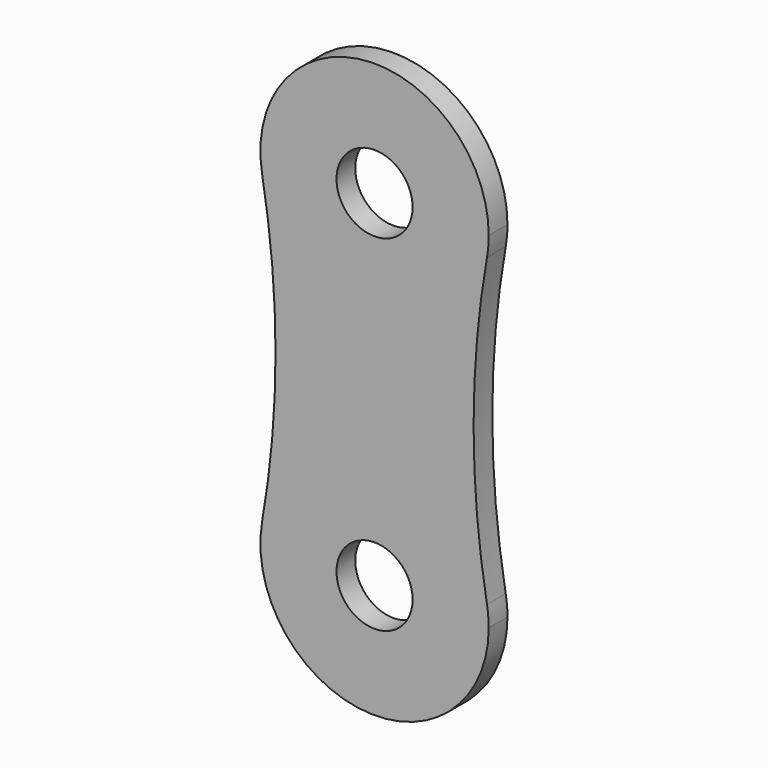
from build123d import *

# Parameters (mm, degrees)
F0_R     = 0.1651
F1_DEPTH = 0.1016


with BuildPart() as f1:
    # F0 (on Front) → F1 (new body)
    with BuildSketch(Plane.XZ):
        with BuildLine():
            ThreePointArc((0.487741, -0.086203), (0.493407, -0.043267), (0.4953, 0))
            ThreePointArc((0.4953, 0), (-0.043267, 0.493407), (-0.487741, -0.086203))
            ThreePointArc((-0.487741, -0.086203), (0, -0.4953), (0.487741, -0.086203))
        make_face()
        Circle(F0_R, mode=Mode.SUBTRACT)
        with BuildLine():
            ThreePointArc((0.487741, -0.086203), (0, -0.4953), (-0.487741, -0.086203))
            ThreePointArc((-0.487741, -0.086203), (-0.429594, -0.7493), (-0.487741, -1.412397))
            ThreePointArc((-0.487741, -1.412397), (0, -1.0033), (0.487741, -1.412397))
            ThreePointArc((0.487741, -1.412397), (0.429594, -0.7493), (0.487741, -0.086203))
        make_face()
        with BuildLine():
            ThreePointArc((0.487741, -1.412397), (0, -1.0033), (-0.487741, -1.412397))
            ThreePointArc((-0.487741, -1.412397), (-0.043267, -1.992007), (0.4953, -1.4986))
            ThreePointArc((0.4953, -1.4986), (0.493407, -1.455333), (0.487741, -1.412397))
        make_face()
        with Locations((0, -1.4986)):
            Circle(F0_R, mode=Mode.SUBTRACT)
    extrude(amount=F1_DEPTH)


solid = f1.part
